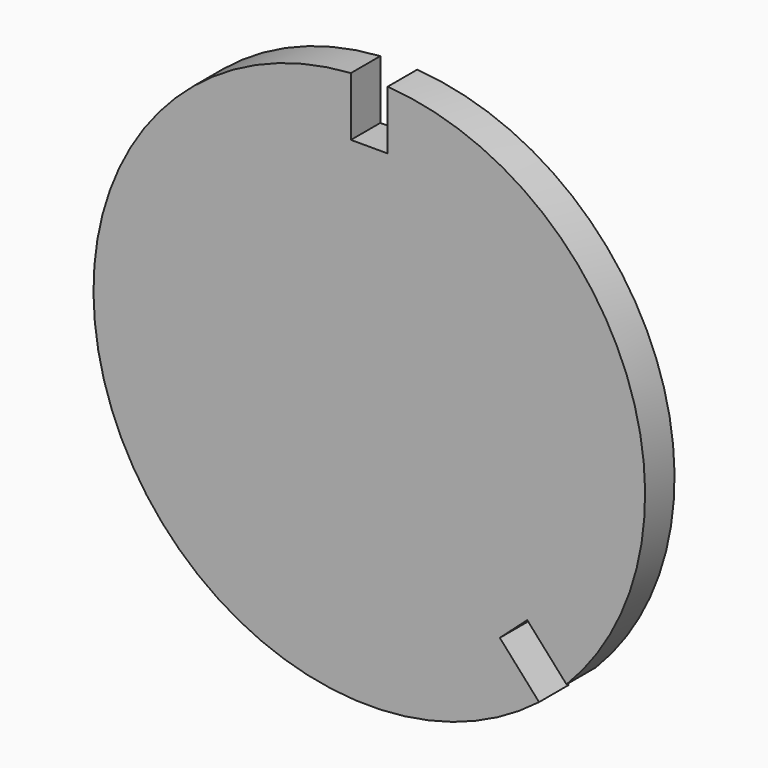
from build123d import *

# Parameters (mm, degrees)
F1_DEPTH = 0.635


with BuildPart() as f1:
    # F0 (on Front) → F1 (new body, symmetric)
    with BuildSketch(Plane.XZ):
        with BuildLine():
            Line((5.454479, -5.145855), (6.809138, -6.660426))
            ThreePointArc((6.809138, -6.660426), (8.898001, 3.398706), (0.635, 9.50381))
            Line((0.635, 9.50381), (0.635, 7.47181))
            Line((0.635, 7.47181), (-0.635, 7.47181))
            Line((-0.635, 7.47181), (-0.635, 9.50381))
            ThreePointArc((-0.635, 9.50381), (-8.898001, -3.398706), (5.862531, -7.507087))
            Line((5.862531, -7.507087), (4.507873, -5.992516))
            Line((4.507873, -5.992516), (5.454479, -5.145855))
        make_face()
    extrude(amount=F1_DEPTH, both=True)


solid = f1.part
